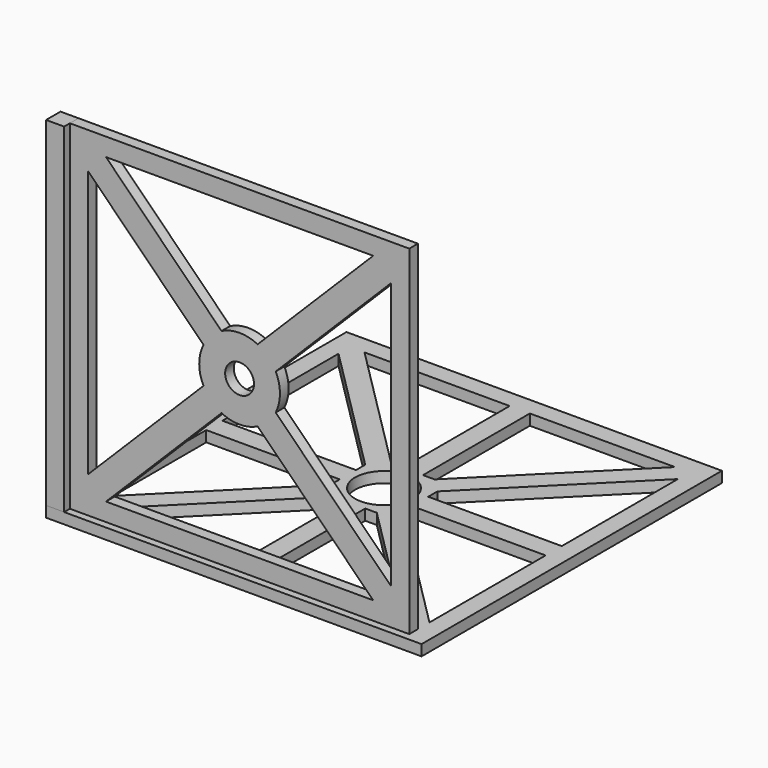
from build123d import *

# Parameters (mm, degrees)
SKETCH001_W  = 94
SKETCH001_H  = 94
SKETCH001_R  = 4
PAD_DEPTH    = 3
SKETCH003_W  = 104
SKETCH003_H  = 104
SKETCH003_R  = 8
PAD001_DEPTH = 3
SKETCH005_W  = 4.999981
SKETCH005_H  = 4.999828
PAD002_DEPTH = 94


with BuildPart() as front_side_cover:
    # Sketch001 → Pad (new body)
    with BuildSketch(Plane.XZ):
        with Locations((47, 47)):
            Rectangle(SKETCH001_W, SKETCH001_H)
        with Locations((47, 47.000012)):
            Circle(SKETCH001_R, mode=Mode.SUBTRACT)
        with BuildLine():
            Line((10, 89), (42, 57))
            ThreePointArc((52, 57), (47, 58.180341), (42, 57))
            Line((52, 57), (84, 89))
            Line((10, 89), (84, 89))
        make_face(mode=Mode.SUBTRACT)
        with BuildLine():
            Line((5, 84), (37, 52))
            ThreePointArc((37, 52), (35.819661, 47), (37, 42))
            Line((37, 42), (5, 10))
            Line((5, 84), (5, 10))
        make_face(mode=Mode.SUBTRACT)
        with BuildLine():
            Line((57, 52), (89, 84))
            Line((89, 84), (89, 10))
            Line((57, 42), (89, 10))
            ThreePointArc((57, 42), (58.18034, 47), (57, 52))
        make_face(mode=Mode.SUBTRACT)
        with BuildLine():
            Line((42, 37), (10, 5))
            Line((10, 5), (84, 5))
            Line((52, 37), (84, 5))
            ThreePointArc((42, 37), (47, 35.819661), (52, 37))
        make_face(mode=Mode.SUBTRACT)
    extrude(amount=PAD_DEPTH)


with BuildPart() as bottom_chassis:
    # Sketch003 → Pad001 (new body)
    with BuildSketch(Plane.XY):
        with Locations((47, 47)):
            Rectangle(SKETCH003_W, SKETCH003_H)
        with Locations((47, 47)):
            Circle(SKETCH003_R, mode=Mode.SUBTRACT)
        Polygon((37, 53), (0, 90), (0, 49.8), (37, 49.8), align=None, mode=Mode.SUBTRACT)
        Polygon((41, 57), (4, 94), (44.2, 94), (44.2, 57), align=None, mode=Mode.SUBTRACT)
        Polygon((49.8, 57), (49.8, 94), (90, 94), (53, 57), align=None, mode=Mode.SUBTRACT)
        Polygon((37, 41), (0, 4), (0, 44.2), (37, 44.2), align=None, mode=Mode.SUBTRACT)
        Polygon((41, 37), (4, 0), (44.2, 0), (44.2, 37), align=None, mode=Mode.SUBTRACT)
        Polygon((57, 41), (94, 4), (94, 44.2), (57, 44.2), align=None, mode=Mode.SUBTRACT)
        Polygon((53, 37), (90, 0), (49.8, 0), (49.8, 37), align=None, mode=Mode.SUBTRACT)
        Polygon((57, 53), (94, 90), (94, 49.8), (57, 49.8), align=None, mode=Mode.SUBTRACT)
    extrude(amount=-PAD001_DEPTH)

    # Sketch005 → Pad002 (join)
    with BuildSketch(Plane.XY):
        with Locations((-2.499991, -2.499914)):
            Rectangle(SKETCH005_W, SKETCH005_H)
    extrude(amount=PAD002_DEPTH)


solid = Compound([front_side_cover.part, bottom_chassis.part])
